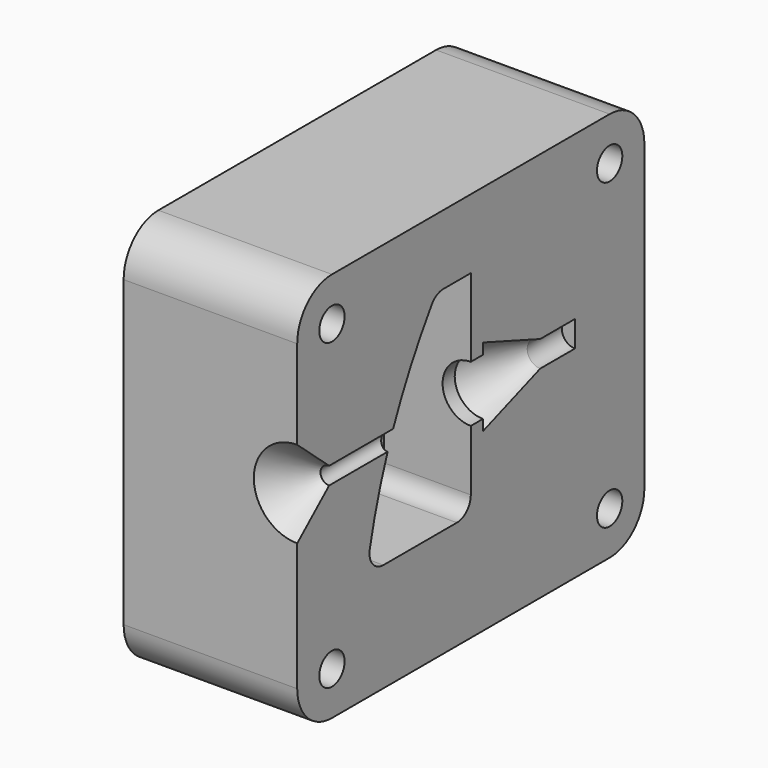
from build123d import *

# Parameters (mm, degrees)
F1_DEPTH        = 10
F5_R            = 2
F6_W            = 50
F6_H            = 45
F7_DEPTH        = 20
F10_D           = 2
F10_DEPTH       = 20
F10_CSINK_D     = 10
F10_CSINK_ANGLE = 82
F10_TIP         = 0.600860619
F11_R           = 5
F12_R           = 1.75
F13_DEPTH       = 5
F15_W           = 33.0769233406
F15_H           = 100.1923158765
F16_DEPTH       = 50.001
F17_R           = 1.825
F18_DEPTH       = 6


with BuildPart() as f1:
    # F0 (on Right) → F1 (new body, symmetric)
    with BuildSketch(Plane.YZ):
        with BuildLine():
            Line((-15, 0), (0, 0))
            Line((0, 0), (0, 24.5))
            Line((0, 24.5), (-5, 24.5))
            ThreePointArc((-5, 24.5), (-11.3675088396, 12.8081668733), (-15, 0))
        make_face()
    extrude(amount=F1_DEPTH, both=True)

    # F3 (on Right) → F4 (revolve)
    with BuildSketch(Plane.YZ):
        Polygon((0, 12.25), (15, 12.25), (15, 13.75), (10, 13.75), (1.75, 16.75), (1.75, 15.5), (0, 15.5), align=None)
    revolve(axis=Axis((0, 7.5, 12.25), (0, -1, 0)))

    # F5
    f5_edges = [f1.edges().sort_by_distance(p)[0] for p in [
        (0, -5, 24.5),
        (0, -15, 0),
        (0, 0, 0),
    ]]
    fillet(f5_edges, radius=F5_R)


with BuildPart() as f7:
    # F6 (on Right) → F7 (new body)
    with BuildSketch(Plane.YZ):
        with Locations((0, 10)):
            Rectangle(F6_W, F6_H)
    extrude(amount=F7_DEPTH)

    # F8: cut F1
    add(f1.part, mode=Mode.SUBTRACT)

    # F10
    with Locations(Plane.XZ.offset(25)):
        with Locations((0, 12.25)):
            CounterSinkHole(F10_D / 2, F10_CSINK_D / 2, depth=F10_DEPTH, counter_sink_angle=F10_CSINK_ANGLE)
            with Locations((0, 0, -(F10_DEPTH + F10_TIP / 2))):  # 118° drill point
                Cone(0, F10_D / 2, F10_TIP, mode=Mode.SUBTRACT)

    # F11
    f11_edges = [f7.edges().sort_by_distance(p)[0] for p in [
        (10, -25, 32.5),
        (10, 25, 32.5),
        (10, -25, -12.5),
        (10, 25, -12.5),
    ]]
    fillet(f11_edges, radius=F11_R)

    # F12 (on face) → F13 (join)
    with BuildSketch(Plane.YZ):
        with Locations((20, 27.5)):
            Circle(F12_R)
        with Locations((-20, 27.5)):
            Circle(F12_R)
        with Locations((-20, -7.5)):
            Circle(F12_R)
        with Locations((20, -7.5)):
            Circle(F12_R)
    extrude(amount=-F13_DEPTH)

    # F14: F7 across plane


with BuildPart() as f7_1:
    add(f7.part)
    add(f7.part.mirror(Plane.YZ))

    # F15 (on face) → F16 (cut, through all)
    with BuildSketch(Plane.XZ.offset(25)):
        with Locations((16.5384616703, 1.5384629369)):
            Rectangle(F15_W, F15_H)
    extrude(amount=-F16_DEPTH, mode=Mode.SUBTRACT)

    # F17 (on face) → F18 (cut)
    with BuildSketch(Plane.YZ):
        with Locations((-20, 27.5)):
            Circle(F17_R)
        with Locations((20, 27.5)):
            Circle(F17_R)
        with Locations((20, -7.5)):
            Circle(F17_R)
        with Locations((-20, -7.5)):
            Circle(F17_R)
    extrude(amount=-F18_DEPTH, mode=Mode.SUBTRACT)


solid = f7_1.part
